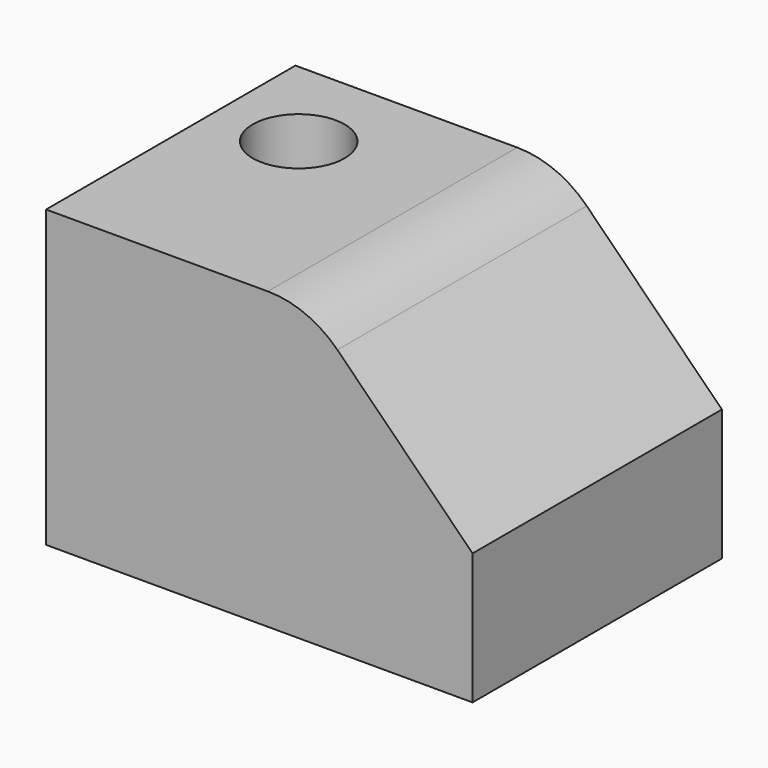
from build123d import *

# Parameters (mm, degrees)
BOX001027045162_W     = 17
BOX001027045162_H     = 18
BOX001027045162_DEPTH = 16
CYLINDER208_R         = 1.4
CYLINDER208_DEPTH     = 30
BOX001027045158_W     = 33
BOX001027045158_H     = 16
BOX001027045158_DEPTH = 10
BOX001027045156_W     = 21
BOX001027045156_H     = 9.5
BOX001027045156_DEPTH = 10
CHAMFER018_SIZE       = 5
FILLET026_R           = 3


with BuildPart() as cube210:
    # Box001027045162 → Box001027045162 (new body)
    with BuildSketch(Plane(origin=(0, -8, -36), x_dir=(1, 0, 0), z_dir=(0, 0, 1))):
        with Locations((8.5, 9)):
            Rectangle(BOX001027045162_W, BOX001027045162_H)
    extrude(amount=BOX001027045162_DEPTH)


with BuildPart() as cylinder252:
    # Cylinder208 → Cylinder208 (new body)
    with BuildSketch(Plane(origin=(19.5, 2, -45), x_dir=(1, 0, 0), z_dir=(0, 0, 1))):
        Circle(CYLINDER208_R)
    extrude(amount=CYLINDER208_DEPTH)


with BuildPart() as cube206:
    # Box001027045158 → Box001027045158 (new body)
    with BuildSketch(Plane(origin=(0, -7, -44), x_dir=(1, 0, 0), z_dir=(0, 0, 1))):
        with Locations((16.5, 8)):
            Rectangle(BOX001027045158_W, BOX001027045158_H)
    extrude(amount=BOX001027045158_DEPTH)


with BuildPart() as adjust_block:
    # Box001027045156 → Box001027045156 (new body)
    with BuildSketch(Plane(origin=(20, -2.5, -42), x_dir=(1, 0, 0), z_dir=(0, 0, 1))):
        with Locations((10.5, 4.75)):
            Rectangle(BOX001027045156_W, BOX001027045156_H)
    extrude(amount=BOX001027045156_DEPTH)

    # Chamfer018
    chamfer018_edges = [adjust_block.edges().sort_by_distance(p)[0] for p in [
        (20, 2.25, -32),
        (41, 2.25, -32),
    ]]
    chamfer(chamfer018_edges, length=CHAMFER018_SIZE)

    # Fillet026
    fillet026_edges = [adjust_block.edges().sort_by_distance(p)[0] for p in [
        (25, 2.25, -32),
        (36, 2.25, -32),
    ]]
    fillet(fillet026_edges, radius=FILLET026_R)


with BuildPart() as adjust_block_1:
    # Fillet026 placement: moved
    add(adjust_block.part.moved(Location((-11, -2, 7))))

    # Cut181: cut Cube206
    add(cube206.part, mode=Mode.SUBTRACT)

    # Cut183: cut Cylinder252
    add(cylinder252.part, mode=Mode.SUBTRACT)

    # Cut188: cut Cube210
    add(cube210.part, mode=Mode.SUBTRACT)


solid = adjust_block_1.part
